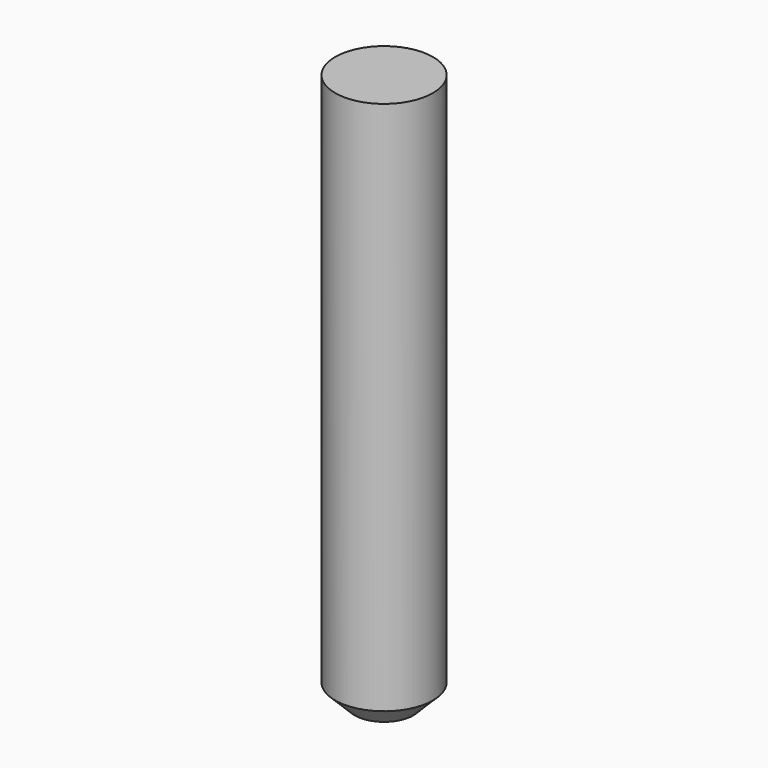
from build123d import *

# Parameters (mm, degrees)
F0_R     = 1.905
F1_DEPTH = 25.4
F2_SIZE  = 0.762
F3_DEPTH = 7.62
F4_DEPTH = 3.81


with BuildPart() as f1:
    # F0 (on Top) → F1 (new body)
    with BuildSketch(Plane.XY):
        Circle(F0_R)
    extrude(amount=F1_DEPTH)

    # F2
    f2_edges = [f1.edges().sort_by_distance(p)[0] for p in [
        (-1.905, 0, 0),
    ]]
    chamfer(f2_edges, length=F2_SIZE)

    # F3 (cut): a face of the model
    f3_faces = [f1.faces().sort_by_distance(p)[0] for p in [
        (0, 0, 25.4),
    ]]
    extrude(f3_faces, amount=-F3_DEPTH, mode=Mode.SUBTRACT)

    # F4 (add): a face of the model
    f4_faces = [f1.faces().sort_by_distance(p)[0] for p in [
        (0, 0, 17.78),
    ]]
    extrude(f4_faces, amount=F4_DEPTH)


solid = f1.part
